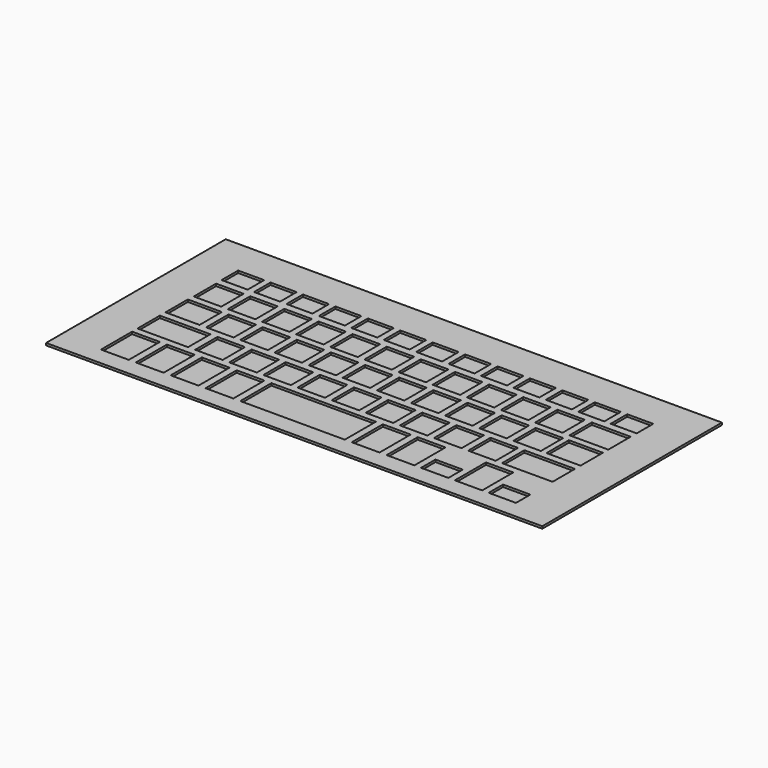
from build123d import *

# Parameters (mm, degrees)
F0_W     = 221
F0_H     = 100
F0_W_2   = 12.386498
F0_H_2   = 17.320721
F0_W_3   = 46.537227
F0_W_4   = 22.514896
F0_H_3   = 12.446534
F0_W_5   = 12.258566
F0_W_6   = 12.386499
F0_W_7   = 12.156089
F0_H_4   = 8.009074
F0_W_8   = 22.514895
F0_W_9   = 15.163868
F0_W_10  = 12.258567
F0_H_5   = 12.446535
F0_W_11  = 11.583957
F0_H_6   = 9.207726
F0_W_12  = 17.290739
F1_DEPTH = 1
F2_R     = 1.5
F2_R_2   = 0.45
F3_DEPTH = 0.7
F4_W     = 195
F4_H     = 86.5
F4_R     = 1.5
F4_R_2   = 0.45
F5_DEPTH = 0.8


with BuildPart() as f1:
    # F0 (on Top) → F1 (new body)
    with BuildSketch(Plane.XY):
        with Locations((0, 3.843219)):
            Rectangle(F0_W, F0_H)
        with Locations((-86.262671, -29.4964205)):
            Rectangle(F0_W_2, F0_H_2, mode=Mode.SUBTRACT)
        with Locations((-70.737671, -29.4964205)):
            Rectangle(F0_W_2, F0_H_2, mode=Mode.SUBTRACT)
        with Locations((-55.212671, -29.4964205)):
            Rectangle(F0_W_2, F0_H_2, mode=Mode.SUBTRACT)
        with Locations((-39.687671, -29.4964205)):
            Rectangle(F0_W_2, F0_H_2, mode=Mode.SUBTRACT)
        with Locations((-7.1277775, -29.4964205)):
            Rectangle(F0_W_3, F0_H_2, mode=Mode.SUBTRACT)
        with Locations((-81.198472, -11.590864)):
            Rectangle(F0_W_4, F0_H_3, mode=Mode.SUBTRACT)
        with Locations((-60.666214, -11.590864)):
            Rectangle(F0_W_5, F0_H_3, mode=Mode.SUBTRACT)
        with Locations((-45.466214, -11.590864)):
            Rectangle(F0_W_5, F0_H_3, mode=Mode.SUBTRACT)
        with Locations((-30.266214, -11.590864)):
            Rectangle(F0_W_5, F0_H_3, mode=Mode.SUBTRACT)
        with Locations((-15.066214, -11.590864)):
            Rectangle(F0_W_5, F0_H_3, mode=Mode.SUBTRACT)
        with Locations((25.4321165, -29.4964205)):
            Rectangle(F0_W_6, F0_H_2, mode=Mode.SUBTRACT)
        with Locations((40.9571165, -29.4964205)):
            Rectangle(F0_W_6, F0_H_2, mode=Mode.SUBTRACT)
        with Locations((56.1959905, -34.152244)):
            Rectangle(F0_W_7, F0_H_4, mode=Mode.SUBTRACT)
        with Locations((86.2959905, -34.152244)):
            Rectangle(F0_W_7, F0_H_4, mode=Mode.SUBTRACT)
        with Locations((71.2459905, -29.4964205)):
            Rectangle(F0_W_7, F0_H_2, mode=Mode.SUBTRACT)
        with Locations((0.133786, -11.590864)):
            Rectangle(F0_W_5, F0_H_3, mode=Mode.SUBTRACT)
        with Locations((15.333786, -11.590864)):
            Rectangle(F0_W_5, F0_H_3, mode=Mode.SUBTRACT)
        with Locations((30.533786, -11.590864)):
            Rectangle(F0_W_5, F0_H_3, mode=Mode.SUBTRACT)
        with Locations((45.733786, -11.590864)):
            Rectangle(F0_W_5, F0_H_3, mode=Mode.SUBTRACT)
        with Locations((60.933786, -11.590864)):
            Rectangle(F0_W_5, F0_H_3, mode=Mode.SUBTRACT)
        with Locations((81.1405435, -11.590864)):
            Rectangle(F0_W_8, F0_H_3, mode=Mode.SUBTRACT)
        with Locations((-84.873986, 3.997023)):
            Rectangle(F0_W_9, F0_H_3, mode=Mode.SUBTRACT)
        with Locations((-68.2191995, 3.997023)):
            Rectangle(F0_W_10, F0_H_3, mode=Mode.SUBTRACT)
        with Locations((-86.111152, 19.4398215)):
            Rectangle(F0_W_5, F0_H_5, mode=Mode.SUBTRACT)
        with Locations((-70.911152, 19.4398215)):
            Rectangle(F0_W_5, F0_H_5, mode=Mode.SUBTRACT)
        with Locations((-55.711152, 19.4398215)):
            Rectangle(F0_W_5, F0_H_5, mode=Mode.SUBTRACT)
        with Locations((-53.0191995, 3.997023)):
            Rectangle(F0_W_10, F0_H_3, mode=Mode.SUBTRACT)
        with Locations((-37.8191995, 3.997023)):
            Rectangle(F0_W_10, F0_H_3, mode=Mode.SUBTRACT)
        with Locations((-22.6191995, 3.997023)):
            Rectangle(F0_W_10, F0_H_3, mode=Mode.SUBTRACT)
        with Locations((-7.4191995, 3.997023)):
            Rectangle(F0_W_10, F0_H_3, mode=Mode.SUBTRACT)
        with Locations((-40.511152, 19.4398215)):
            Rectangle(F0_W_5, F0_H_5, mode=Mode.SUBTRACT)
        with Locations((-25.311152, 19.4398215)):
            Rectangle(F0_W_5, F0_H_5, mode=Mode.SUBTRACT)
        with Locations((-10.111152, 19.4398215)):
            Rectangle(F0_W_5, F0_H_5, mode=Mode.SUBTRACT)
        with Locations((-86.6160585, 33.552918)):
            Rectangle(F0_W_11, F0_H_6, mode=Mode.SUBTRACT)
        with Locations((-72.1760585, 33.552918)):
            Rectangle(F0_W_11, F0_H_6, mode=Mode.SUBTRACT)
        with Locations((-57.7360585, 33.552918)):
            Rectangle(F0_W_11, F0_H_6, mode=Mode.SUBTRACT)
        with Locations((-43.2960585, 33.552918)):
            Rectangle(F0_W_11, F0_H_6, mode=Mode.SUBTRACT)
        with Locations((-28.8560585, 33.552918)):
            Rectangle(F0_W_11, F0_H_6, mode=Mode.SUBTRACT)
        with Locations((-14.4160585, 33.552918)):
            Rectangle(F0_W_11, F0_H_6, mode=Mode.SUBTRACT)
        with Locations((7.7808005, 3.997023)):
            Rectangle(F0_W_10, F0_H_3, mode=Mode.SUBTRACT)
        with Locations((22.9808005, 3.997023)):
            Rectangle(F0_W_10, F0_H_3, mode=Mode.SUBTRACT)
        with Locations((38.1808005, 3.997023)):
            Rectangle(F0_W_10, F0_H_3, mode=Mode.SUBTRACT)
        with Locations((53.3808005, 3.997023)):
            Rectangle(F0_W_10, F0_H_3, mode=Mode.SUBTRACT)
        with Locations((5.088848, 19.4398215)):
            Rectangle(F0_W_5, F0_H_5, mode=Mode.SUBTRACT)
        with Locations((20.288848, 19.4398215)):
            Rectangle(F0_W_5, F0_H_5, mode=Mode.SUBTRACT)
        with Locations((35.488848, 19.4398215)):
            Rectangle(F0_W_5, F0_H_5, mode=Mode.SUBTRACT)
        with Locations((50.688848, 19.4398215)):
            Rectangle(F0_W_5, F0_H_5, mode=Mode.SUBTRACT)
        with Locations((68.5808005, 3.997023)):
            Rectangle(F0_W_10, F0_H_3, mode=Mode.SUBTRACT)
        with Locations((84.816057, 3.997023)):
            Rectangle(F0_W_9, F0_H_3, mode=Mode.SUBTRACT)
        with Locations((65.888848, 19.4398215)):
            Rectangle(F0_W_5, F0_H_5, mode=Mode.SUBTRACT)
        with Locations((83.7526215, 19.4398215)):
            Rectangle(F0_W_12, F0_H_5, mode=Mode.SUBTRACT)
        with Locations((0.0239415, 33.552918)):
            Rectangle(F0_W_11, F0_H_6, mode=Mode.SUBTRACT)
        with Locations((14.4639415, 33.552918)):
            Rectangle(F0_W_11, F0_H_6, mode=Mode.SUBTRACT)
        with Locations((28.9039415, 33.552918)):
            Rectangle(F0_W_11, F0_H_6, mode=Mode.SUBTRACT)
        with Locations((43.3439415, 33.552918)):
            Rectangle(F0_W_11, F0_H_6, mode=Mode.SUBTRACT)
        with Locations((57.7839415, 33.552918)):
            Rectangle(F0_W_11, F0_H_6, mode=Mode.SUBTRACT)
        with Locations((72.2239415, 33.552918)):
            Rectangle(F0_W_11, F0_H_6, mode=Mode.SUBTRACT)
        with Locations((86.6639415, 33.552918)):
            Rectangle(F0_W_11, F0_H_6, mode=Mode.SUBTRACT)
    extrude(amount=F1_DEPTH)

    # F2 (on face) → F3 (join)
    with BuildSketch(Plane(origin=(0, 0, 0), x_dir=(1, 0, 0), z_dir=(0, 0, -1))):
        with Locations((95.45592, -41.156781)):
            Circle(F2_R)
        with Locations((95.45592, -41.156781)):
            Circle(F2_R_2, mode=Mode.SUBTRACT)
        with Locations((95.45592, 0)):
            Circle(F2_R)
        with Locations((95.45592, 0)):
            Circle(F2_R_2, mode=Mode.SUBTRACT)
        with Locations((95.45592, 41.156781)):
            Circle(F2_R)
        with Locations((95.45592, 41.156781)):
            Circle(F2_R_2, mode=Mode.SUBTRACT)
        with Locations((0, 41.156781)):
            Circle(F2_R)
        with Locations((0, 41.156781)):
            Circle(F2_R_2, mode=Mode.SUBTRACT)
        with Locations((-95.45592, 41.156781)):
            Circle(F2_R)
        with Locations((-95.45592, 41.156781)):
            Circle(F2_R_2, mode=Mode.SUBTRACT)
        with Locations((-95.45592, 0)):
            Circle(F2_R)
        with Locations((-95.45592, 0)):
            Circle(F2_R_2, mode=Mode.SUBTRACT)
        with Locations((-95.45592, -41.156781)):
            Circle(F2_R)
        with Locations((-95.45592, -41.156781)):
            Circle(F2_R_2, mode=Mode.SUBTRACT)
        with Locations((0, -41.156781)):
            Circle(F2_R)
        with Locations((0, -41.156781)):
            Circle(F2_R_2, mode=Mode.SUBTRACT)
    extrude(amount=F3_DEPTH)


with BuildPart() as f5:
    # F4 (on face) → F5 (new body)
    with BuildSketch(Plane(origin=(0, 0, -0.7), x_dir=(1, 0, 0), z_dir=(0, 0, -1))):
        Rectangle(F4_W, F4_H)
        with Locations((-95.45592, 41.156781)):
            Circle(F4_R, mode=Mode.SUBTRACT)
        with Locations((-95.45592, 41.156781)):
            Circle(F4_R)
        with Locations((-95.45592, 41.156781)):
            Circle(F4_R_2, mode=Mode.SUBTRACT)
        with Locations((-95.45592, 41.156781)):
            Circle(F4_R_2)
    extrude(amount=F5_DEPTH)


solid = Compound([f1.part, f5.part])
